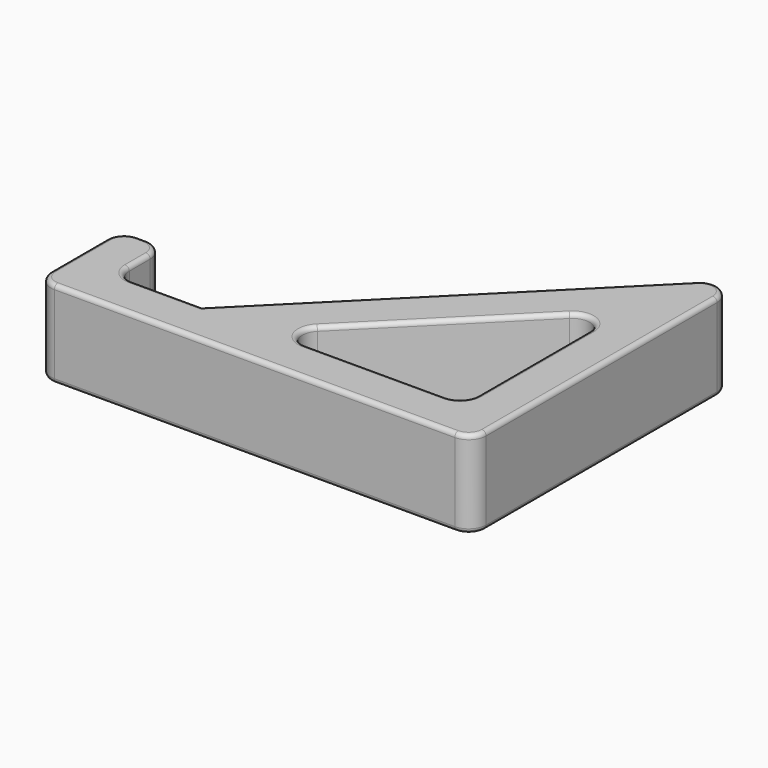
from build123d import *

# Parameters (mm, degrees)
F1_DEPTH = 12.7
F2_R     = 0.635


with BuildPart() as f1:
    # F0 (on Top) → F1 (new body)
    with BuildSketch(Plane.XY):
        with BuildLine():
            Line((-60.96, 0), (-2.54, 0))
            ThreePointArc((-2.54, 0), (-0.743949, 0.743949), (0, 2.54))
            Line((0, 2.54), (0, 6.35))
            Line((0, 6.35), (0, 44.667898))
            ThreePointArc((0, 44.667898), (-1.567984, 47.014552), (-4.336051, 46.463949))
            Line((-4.336051, 46.463949), (-44.45, 6.35))
            Line((-44.45, 6.35), (-54.61, 6.35))
            ThreePointArc((-54.61, 6.35), (-56.406051, 7.093949), (-57.15, 8.89))
            Line((-57.15, 8.89), (-57.15, 12.7))
            ThreePointArc((-57.15, 12.7), (-57.893949, 14.496051), (-59.69, 15.24))
            Line((-59.69, 15.24), (-60.96, 15.24))
            ThreePointArc((-60.96, 15.24), (-62.756051, 14.496051), (-63.5, 12.7))
            Line((-63.5, 12.7), (-63.5, 6.35))
            Line((-63.5, 6.35), (-63.5, 2.54))
            ThreePointArc((-63.5, 2.54), (-62.756051, 0.743949), (-60.96, 0))
        make_face()
        with BuildLine():
            Line((-31.133693, 10.686051), (-10.686051, 31.133693))
            ThreePointArc((-10.686051, 31.133693), (-7.917984, 31.684295), (-6.35, 29.337641))
            Line((-6.35, 29.337641), (-6.35, 8.89))
            ThreePointArc((-6.35, 8.89), (-7.093949, 7.093949), (-8.89, 6.35))
            Line((-8.89, 6.35), (-29.337641, 6.35))
            ThreePointArc((-29.337641, 6.35), (-31.684295, 7.917984), (-31.133693, 10.686051))
        make_face(mode=Mode.SUBTRACT)
    extrude(amount=F1_DEPTH)

    # F2
    f2_edges = [f1.edges().sort_by_distance(p)[0] for p in [
        (-24.393026, 26.406974, 12.7),
        (-6.35, 19.113821, 12.7),
        (-24.393026, 26.406974, 0),
        (-20.909872, 20.909872, 0),
    ]]
    fillet(f2_edges, radius=F2_R)


solid = f1.part
